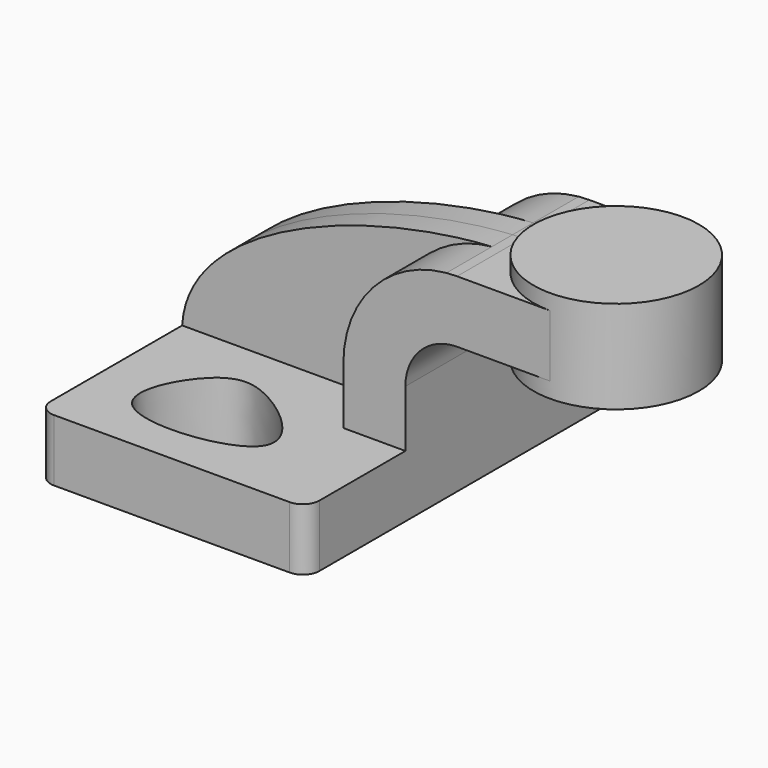
from build123d import *

# Parameters (mm, degrees)
F1_DEPTH = 63.5
F0_W     = 25.4
F0_H     = 19.05
F2_DEPTH = 25.4
F3_DEPTH = 7.9375
F5_R     = 5.08
F7_DEPTH = 19.051


with BuildPart() as f1:
    # F0 (on Front) → F1 (new body, symmetric)
    with BuildSketch(Plane.XZ):
        Polygon((22.225, 9.525), (-41.275, 9.525), (-41.275, -9.525), (41.275, -9.525), (41.275, 9.525), align=None)
    extrude(amount=F1_DEPTH, both=True)

    # F0 (on Front) → F2 (join, symmetric)
    with BuildSketch(Plane.XZ):
        with BuildLine():
            Line((22.225, 27.0002), (22.225, 9.525))
            Line((22.225, 9.525), (41.275, 9.525))
            Line((41.275, 9.525), (41.275, 27.0002))
            ThreePointArc((41.275, 27.0002), (45.9246798487, 38.2255201513), (57.15, 42.8752))
            Line((57.15, 42.8752), (60.325, 42.8752))
            Line((60.325, 42.8752), (60.325, 61.9252))
            Line((60.325, 61.9252), (57.15, 61.9252))
            add(Edge.make_bspline(
                [(53.8854342407, 61.7722898912), (54.9842067368, 61.8365871986), (56.0728453275, 61.8876096574), (57.15, 61.9252)],
                knots=[108.5245810491, 108.5245810491, 108.5245810491, 108.5245810491, 111.5045361635, 111.5045361635, 111.5045361635, 111.5045361635], degree=3))
            ThreePointArc((53.8854342407, 61.7722898912), (31.3258777096, 50.5133948686), (22.225, 27.0002))
        make_face()
        with Locations((73.025, 52.4002)):
            Rectangle(F0_W, F0_H)
    extrude(amount=F2_DEPTH, both=True)

    # F0 (on Front) → F3 (join, symmetric)
    with BuildSketch(Plane.XZ):
        with BuildLine():
            add(Edge.make_bspline(
                [(-41.275, 9.525), (-39.5856284224, 39.4828766469), (13.870125209, 59.4306981306), (53.8854342407, 61.7722898912)],
                knots=[0, 0, 0, 0, 108.5245810491, 108.5245810491, 108.5245810491, 108.5245810491], degree=3))
            Line((-41.275, 9.525), (22.225, 9.525))
            Line((22.225, 9.525), (22.225, 27.0002))
            ThreePointArc((22.225, 27.0002), (31.3258777096, 50.5133948686), (53.8854342407, 61.7722898912))
        make_face()
    extrude(amount=F3_DEPTH, both=True)

    # F0 (on Front) → F4 (revolve)
    with BuildSketch(Plane.XZ):
        Polygon((85.725, 66.675), (85.725, 61.9252), (85.725, 42.8752), (85.725, 38.1), (111.125, 38.1), (111.125, 66.675), align=None)
    revolve(axis=Axis((85.725, 0, 52.3875), (0, 0, 1)))

    # F5
    f5_edges = [f1.edges().sort_by_distance(p)[0] for p in [
        (41.275, -63.5, 0),
        (-41.275, -63.5, 0),
        (41.275, 63.5, 0),
        (-41.275, 63.5, 0),
    ]]
    fillet(f5_edges, radius=F5_R)

    # F6 (on face) → F7 (cut, through all)
    with BuildSketch(Plane.XY.offset(9.525)):
        with BuildLine():
            add(Edge.make_bspline(
                [(-18.9295262098, -24.8981826007), (-24.712399242, -30.2864410952), (-38.1008565089, -57.009661792), (30.4985432183, -49.7469404894), (-3.4350084724, -20.2101961188), (-14.1454564502, -20.4405705493), (-18.9295262098, -24.8981826007)],
                knots=[0, 0, 0, 0, 0.2407216208, 0.5473198285, 0.8008552116, 1, 1, 1, 1], degree=3))
        make_face()
    extrude(amount=-F7_DEPTH, mode=Mode.SUBTRACT)


solid = f1.part
